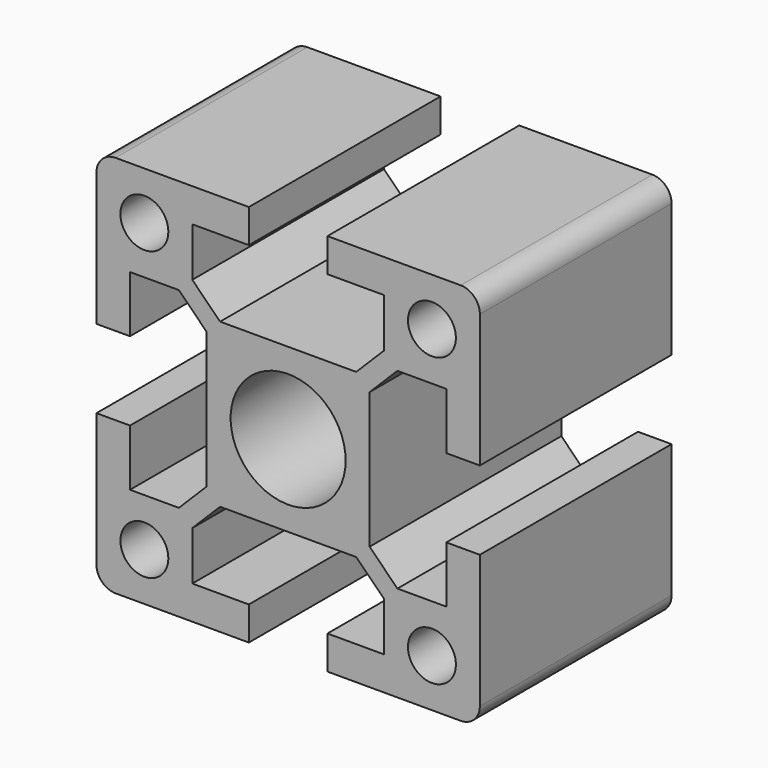
from build123d import *

# Parameters (mm, degrees)
F0_R     = 2.5
F0_R_2   = 6
F1_DEPTH = 25
F2_R     = 2


with BuildPart() as f1:
    # F0 (on Front) → F1 (new body)
    with BuildSketch(Plane.XZ):
        Polygon((4.1, -20), (20, -20), (20, -4.1), (16.5, -4.1), (16.5, -10), (11.4, -10), (8.5, -7.1), (8.5, 0), (8.5, 7.1), (11.4, 10), (16.5, 10), (16.5, 4.1), (20, 4.1), (20, 20), (4.1, 20), (4.1, 16.5), (10, 16.5), (10, 11.4), (7.1, 8.5), (0, 8.5), (-7.1, 8.5), (-10, 11.4), (-10, 16.5), (-4.1, 16.5), (-4.1, 20), (-20, 20), (-20, 4.1), (-16.5, 4.1), (-16.5, 10), (-11.4, 10), (-8.5, 7.1), (-8.5, 0), (-8.5, -7.1), (-11.4, -10), (-16.5, -10), (-16.5, -4.1), (-20, -4.1), (-20, -20), (-4.1, -20), (-4.1, -16.5), (-10, -16.5), (-10, -11.4), (-7.1, -8.5), (0, -8.5), (7.1, -8.5), (10, -11.4), (10, -16.5), (4.1, -16.5), align=None)
        with Locations((-15, -15)):
            Circle(F0_R, mode=Mode.SUBTRACT)
        with Locations((15, -15)):
            Circle(F0_R, mode=Mode.SUBTRACT)
        with Locations((-15, 15)):
            Circle(F0_R, mode=Mode.SUBTRACT)
        Circle(F0_R_2, mode=Mode.SUBTRACT)
        with Locations((15, 15)):
            Circle(F0_R, mode=Mode.SUBTRACT)
    extrude(amount=F1_DEPTH)

    # F2
    f2_edges = [f1.edges().sort_by_distance(p)[0] for p in [
        (20, -12.5, 20),
        (-20, -12.5, 20),
        (-20, -12.5, -20),
        (20, -12.5, -20),
    ]]
    fillet(f2_edges, radius=F2_R)


solid = f1.part
